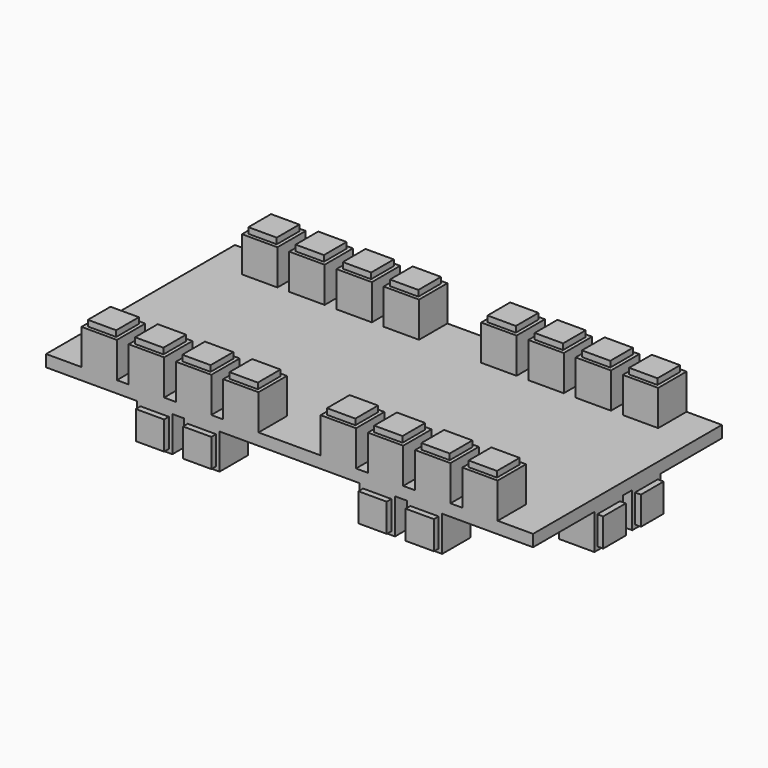
from build123d import *

# Parameters (mm, degrees)
F0_W      = 206.3
F0_H      = 100
F1_DEPTH  = 5
F2_W      = 15
F2_H      = 15
F3_DEPTH  = 15
F4_W      = 15
F4_H      = 15
F5_DEPTH  = 15
F6_W      = 12
F6_H      = 12
F7_DEPTH  = 2.5
F8_W      = 12
F8_H      = 12
F9_DEPTH  = 2.5
F10_W     = 12
F10_H     = 12
F11_DEPTH = 2.5
F12_W     = 12
F12_H     = 12
F13_DEPTH = 2.5
F14_W     = 12
F14_H     = 12
F15_DEPTH = 2.5


with BuildPart() as f1:
    # F0 (on Top) → F1 (new body)
    with BuildSketch(Plane.XY):
        Rectangle(F0_W, F0_H)
    extrude(amount=F1_DEPTH)

    # F2 (on face) → F3 (join)
    with BuildSketch(Plane.XY.offset(5)):
        with Locations((-80.65, 42.5)):
            Rectangle(F2_W, F2_H)
        with Locations((-60.65, 42.5)):
            Rectangle(F2_W, F2_H)
        with Locations((-40.65, 42.5)):
            Rectangle(F2_W, F2_H)
        with Locations((-20.65, 42.5)):
            Rectangle(F2_W, F2_H)
        with Locations((-20.65, -42.5)):
            Rectangle(F2_W, F2_H)
        with Locations((-40.65, -42.5)):
            Rectangle(F2_W, F2_H)
        with Locations((-60.65, -42.5)):
            Rectangle(F2_W, F2_H)
        with Locations((-80.65, -42.5)):
            Rectangle(F2_W, F2_H)
        with Locations((20.65, -42.5)):
            Rectangle(F2_W, F2_H)
        with Locations((40.65, -42.5)):
            Rectangle(F2_W, F2_H)
        with Locations((60.65, -42.5)):
            Rectangle(F2_W, F2_H)
        with Locations((80.65, -42.5)):
            Rectangle(F2_W, F2_H)
        with Locations((20.65, 42.5)):
            Rectangle(F2_W, F2_H)
        with Locations((40.65, 42.5)):
            Rectangle(F2_W, F2_H)
        with Locations((60.65, 42.5)):
            Rectangle(F2_W, F2_H)
        with Locations((80.65, 42.5)):
            Rectangle(F2_W, F2_H)
    extrude(amount=F3_DEPTH)

    # F4 (on face) → F5 (join)
    with BuildSketch(Plane(origin=(0, 0, 0), x_dir=(1, 0, 0), z_dir=(0, 0, -1))):
        with Locations((95.65, -10)):
            Rectangle(F4_W, F4_H)
        with Locations((95.65, 10)):
            Rectangle(F4_W, F4_H)
        with Locations((57.15, 42.5)):
            Rectangle(F4_W, F4_H)
        with Locations((37.15, 42.5)):
            Rectangle(F4_W, F4_H)
        with Locations((57.15, -42.5)):
            Rectangle(F4_W, F4_H)
        with Locations((37.15, -42.5)):
            Rectangle(F4_W, F4_H)
        with Locations((-95.65, 10)):
            Rectangle(F4_W, F4_H)
        with Locations((-95.65, -10)):
            Rectangle(F4_W, F4_H)
        with Locations((-57.15, 42.5)):
            Rectangle(F4_W, F4_H)
        with Locations((-57.15, -42.5)):
            Rectangle(F4_W, F4_H)
        with Locations((-37.15, 42.5)):
            Rectangle(F4_W, F4_H)
        with Locations((-37.15, -42.5)):
            Rectangle(F4_W, F4_H)
    extrude(amount=F5_DEPTH)

    # F6 (on face) → F7 (join)
    with BuildSketch(Plane.XY.offset(20)):
        with Locations((-80.65, 42.5)):
            Rectangle(F6_W, F6_H)
        with Locations((-60.65, 42.5)):
            Rectangle(F6_W, F6_H)
        with Locations((-40.65, 42.5)):
            Rectangle(F6_W, F6_H)
        with Locations((-20.65, 42.5)):
            Rectangle(F6_W, F6_H)
        with Locations((20.65, 42.5)):
            Rectangle(F6_W, F6_H)
        with Locations((40.65, 42.5)):
            Rectangle(F6_W, F6_H)
        with Locations((60.65, 42.5)):
            Rectangle(F6_W, F6_H)
        with Locations((80.65, 42.5)):
            Rectangle(F6_W, F6_H)
        with Locations((80.65, -42.5)):
            Rectangle(F6_W, F6_H)
        with Locations((60.65, -42.5)):
            Rectangle(F6_W, F6_H)
        with Locations((40.65, -42.5)):
            Rectangle(F6_W, F6_H)
        with Locations((20.65, -42.5)):
            Rectangle(F6_W, F6_H)
        with Locations((-80.65, -42.5)):
            Rectangle(F6_W, F6_H)
        with Locations((-60.65, -42.5)):
            Rectangle(F6_W, F6_H)
        with Locations((-40.65, -42.5)):
            Rectangle(F6_W, F6_H)
        with Locations((-20.65, -42.5)):
            Rectangle(F6_W, F6_H)
    extrude(amount=F7_DEPTH)

    # F8 (on face) → F9 (join)
    with BuildSketch(Plane(origin=(-103.15, 0, 0), x_dir=(0, -1, 0), z_dir=(-1, 0, 0))):
        with Locations((-10, -7.5)):
            Rectangle(F8_W, F8_H)
        with Locations((10, -7.5)):
            Rectangle(F8_W, F8_H)
    extrude(amount=F9_DEPTH)

    # F10 (on face) → F11 (join)
    with BuildSketch(Plane.YZ.offset(103.15)):
        with Locations((-10, -7.5)):
            Rectangle(F10_W, F10_H)
        with Locations((10, -7.5)):
            Rectangle(F10_W, F10_H)
    extrude(amount=F11_DEPTH)

    # F12 (on face) → F13 (join)
    with BuildSketch(Plane(origin=(0, 50, 0), x_dir=(-1, 0, 0), z_dir=(0, 1, 0))):
        with Locations((-37.15, -7.5)):
            Rectangle(F12_W, F12_H)
        with Locations((-57.15, -7.5)):
            Rectangle(F12_W, F12_H)
        with Locations((37.15, -7.5)):
            Rectangle(F12_W, F12_H)
        with Locations((57.15, -7.5)):
            Rectangle(F12_W, F12_H)
    extrude(amount=F13_DEPTH)

    # F14 (on face) → F15 (join)
    with BuildSketch(Plane.XZ.offset(50)):
        with Locations((-57.15, -7.5)):
            Rectangle(F14_W, F14_H)
        with Locations((-37.15, -7.5)):
            Rectangle(F14_W, F14_H)
        with Locations((37.15, -7.5)):
            Rectangle(F14_W, F14_H)
        with Locations((57.15, -7.5)):
            Rectangle(F14_W, F14_H)
    extrude(amount=F15_DEPTH)


solid = f1.part
